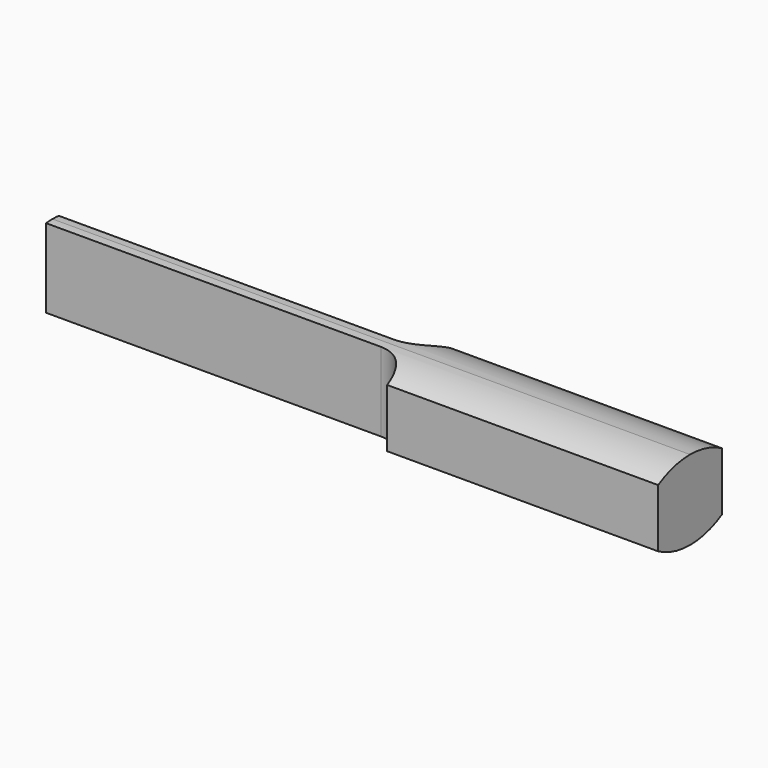
from build123d import *

# Parameters (mm, degrees)
F0_W     = 200
F0_H     = 25
F1_DEPTH = 25
F3_DEPTH = 200.001
F5_DEPTH = 25.001


with BuildPart() as f1:
    # F0 (on Top) → F1 (new body)
    with BuildSketch(Plane.XY):
        Rectangle(F0_W, F0_H)
    extrude(amount=F1_DEPTH)

    # F2 (on face) → F3 (cut, through all)
    with BuildSketch(Plane.YZ.offset(100)):
        with BuildLine():
            ThreePointArc((0, 25), (6.470476, 24.148146), (12.5, 21.650635))
            Line((12.5, 21.650635), (12.5, 25))
            Line((12.5, 25), (0, 25))
        make_face()
        with BuildLine():
            Line((-12.5, 25), (-12.5, 21.650635))
            ThreePointArc((-12.5, 21.650635), (-6.470476, 24.148146), (0, 25))
            Line((0, 25), (-12.5, 25))
        make_face()
        with BuildLine():
            Line((12.5, 0), (12.5, 3.349365))
            ThreePointArc((12.5, 3.349365), (6.470476, 0.851854), (0, 0))
            Line((0, 0), (12.5, 0))
        make_face()
        with BuildLine():
            ThreePointArc((0, 0), (-6.470476, 0.851854), (-12.5, 3.349365))
            Line((-12.5, 3.349365), (-12.5, 0))
            Line((-12.5, 0), (0, 0))
        make_face()
    extrude(amount=-F3_DEPTH, mode=Mode.SUBTRACT)

    # F4 (on Top) → F5 (cut, through all)
    with BuildSketch(Plane.XY):
        with BuildLine():
            Line((-100, 12.5), (-100, 2.5))
            Line((-100, 2.5), (5, 2.5))
            ThreePointArc((5, 2.5), (12.071068, 5.428932), (15, 12.5))
            Line((15, 12.5), (-100, 12.5))
        make_face()
        with BuildLine():
            Line((-100, -2.5), (-100, -12.5))
            Line((-100, -12.5), (15, -12.5))
            ThreePointArc((15, -12.5), (12.071068, -5.428932), (5, -2.5))
            Line((5, -2.5), (-100, -2.5))
        make_face()
    extrude(amount=F5_DEPTH, mode=Mode.SUBTRACT)


solid = f1.part
